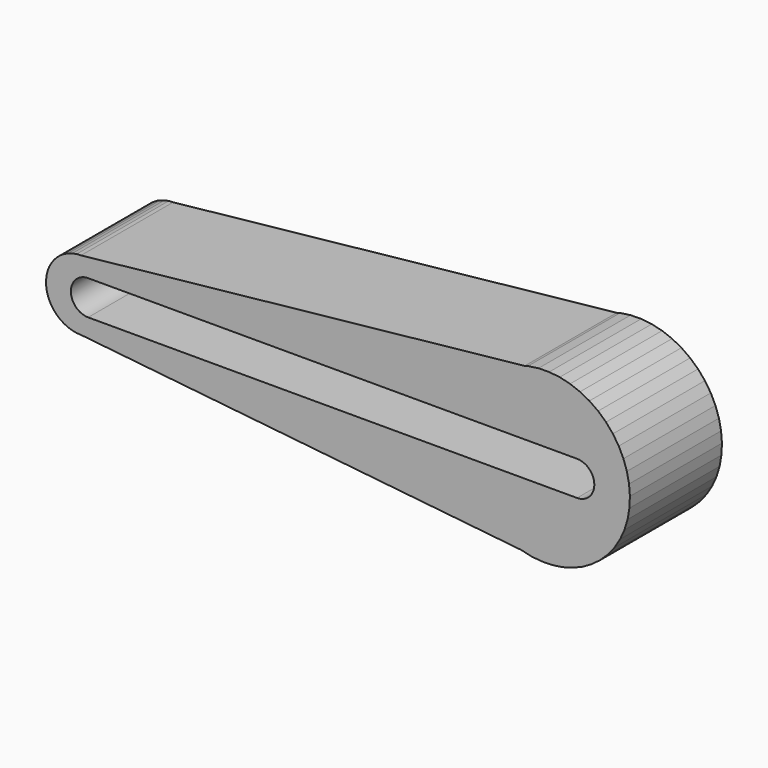
from build123d import *

# Parameters (mm, degrees)
F1_DEPTH = 25.4
F2_W     = 107.95
F2_H     = 7.62
F3_DEPTH = 25.4


with BuildPart() as f1:
    # F0 (on Front) → F1 (new body)
    with BuildSketch(Plane.XZ):
        Polygon((34.795007, 14.206795), (36.671421, 15.617947), (38.709903, 16.782795), (40.878305, 17.682968), (42.411124, 18.103591), (-55.535455, 7.733652), (-54.566239, 7.671582), (-53.612446, 7.488527), (-52.689117, 7.187373), (-51.810813, 6.77287), (-50.991386, 6.251554), (-50.243758, 5.631648), (-49.57972, 4.922928), (-49.009745, 4.13657), (-48.542821, 3.284975), (-48.186312, 2.381575), (-47.94584, 1.440616), (-47.825198, 0.476938), (-47.826288, -0.494263), (-47.949093, -1.457668), (-48.191676, -2.398085), (-48.550212, -3.300683), (-49.019046, -4.151227), (-49.590785, -4.936303), (-50.256412, -5.643531), (-51.005429, -6.261758), (-51.826025, -6.781233), (-52.705257, -7.193763), (-53.62926, -7.492844), (-54.583462, -7.673758), (-55.552814, -7.733652), (41.71096, -17.93242), (41.464741, -17.873512), (39.267833, -17.045337), (37.192046, -15.948346), (35.270117, -14.599841), (33.532356, -13.021087), (32.006168, -11.236983), (30.715621, -9.275665), (29.681069, -7.168064), (28.918828, -4.947418), (28.440918, -2.648749), (28.254875, -0.308308), (28.363635, 2.036996), (28.765482, 4.350175), (29.454078, 6.59475), (30.418564, 8.735321), (31.64373, 10.738131), (33.110254, 12.571594), align=None)
        Polygon((38.709903, 16.782795), (36.671421, 15.617947), (34.795007, 14.206795), (33.110254, 12.571594), (31.64373, 10.738131), (30.418564, 8.735321), (29.454078, 6.59475), (28.765482, 4.350175), (28.363635, 2.036996), (28.254875, -0.308308), (28.440918, -2.648749), (28.918828, -4.947418), (29.681069, -7.168064), (30.715621, -9.275665), (32.006168, -11.236983), (33.532356, -13.021087), (35.270117, -14.599841), (37.192046, -15.948346), (39.267833, -17.045337), (41.464741, -17.873512), (41.71096, -17.93242), (48.429475, -18.636902), (50.753616, -18.30427), (53.017741, -17.682968), (55.186143, -16.782795), (57.224625, -15.617947), (59.101039, -14.206795), (60.785793, -12.571594), (62.252316, -10.738131), (63.477482, -8.735321), (64.441968, -6.59475), (65.130564, -4.350175), (65.532411, -2.036996), (65.641171, 0.308308), (65.455129, 2.648749), (64.977218, 4.947418), (64.214977, 7.168064), (63.180425, 9.275665), (61.889879, 11.236983), (60.36369, 13.021087), (58.625929, 14.599841), (56.704, 15.948346), (54.628213, 17.045337), (52.431306, 17.873512), (50.147923, 18.419812), (47.814076, 18.67562), (42.411124, 18.103591), (40.878305, 17.682968), align=None)
        Polygon((43.14243, 18.30427), (42.411124, 18.103591), (47.814076, 18.67562), (45.466571, 18.636902), align=None)
        Polygon((-54.566239, 7.671582), (-55.535455, 7.733652), (-56.504807, 7.673758), (-57.459008, 7.492844), (-58.383011, 7.193763), (-59.262244, 6.781233), (-60.082839, 6.261758), (-60.831856, 5.643531), (-61.497483, 4.936303), (-62.069222, 4.151227), (-62.538056, 3.300683), (-62.896592, 2.398085), (-63.139176, 1.457668), (-63.261981, 0.494263), (-63.263071, -0.476938), (-63.142429, -1.440616), (-62.901957, -2.381575), (-62.545448, -3.284975), (-62.078524, -4.13657), (-61.508548, -4.922928), (-60.844511, -5.631648), (-60.096883, -6.251554), (-59.277456, -6.77287), (-58.399152, -7.187373), (-57.475822, -7.488527), (-56.522029, -7.671582), (-55.552814, -7.733652), (-54.583462, -7.673758), (-53.62926, -7.492844), (-52.705257, -7.193763), (-51.826025, -6.781233), (-51.005429, -6.261758), (-50.256412, -5.643531), (-49.590785, -4.936303), (-49.019046, -4.151227), (-48.550212, -3.300683), (-48.191676, -2.398085), (-47.949093, -1.457668), (-47.826288, -0.494263), (-47.825198, 0.476938), (-47.94584, 1.440616), (-48.186312, 2.381575), (-48.542821, 3.284975), (-49.009745, 4.13657), (-49.57972, 4.922928), (-50.243758, 5.631648), (-50.991386, 6.251554), (-51.810813, 6.77287), (-52.689117, 7.187373), (-53.612446, 7.488527), align=None)
        Polygon((48.429475, -18.636902), (41.71096, -17.93242), (43.748123, -18.419812), (46.08197, -18.67562), align=None)
    extrude(amount=F1_DEPTH)

    # F2 (on Front) → F3 (cut)
    with BuildSketch(Plane.XZ):
        Rectangle(F2_W, F2_H)
        with BuildLine():
            Line((-53.975, -3.81), (-53.975, 3.81))
            ThreePointArc((-53.975, 3.81), (-57.785, 0), (-53.975, -3.81))
        make_face()
        with BuildLine():
            ThreePointArc((53.975, -3.81), (57.785, 0), (53.975, 3.81))
            Line((53.975, 3.81), (53.975, -3.81))
        make_face()
    extrude(amount=F3_DEPTH, mode=Mode.SUBTRACT)


solid = f1.part
